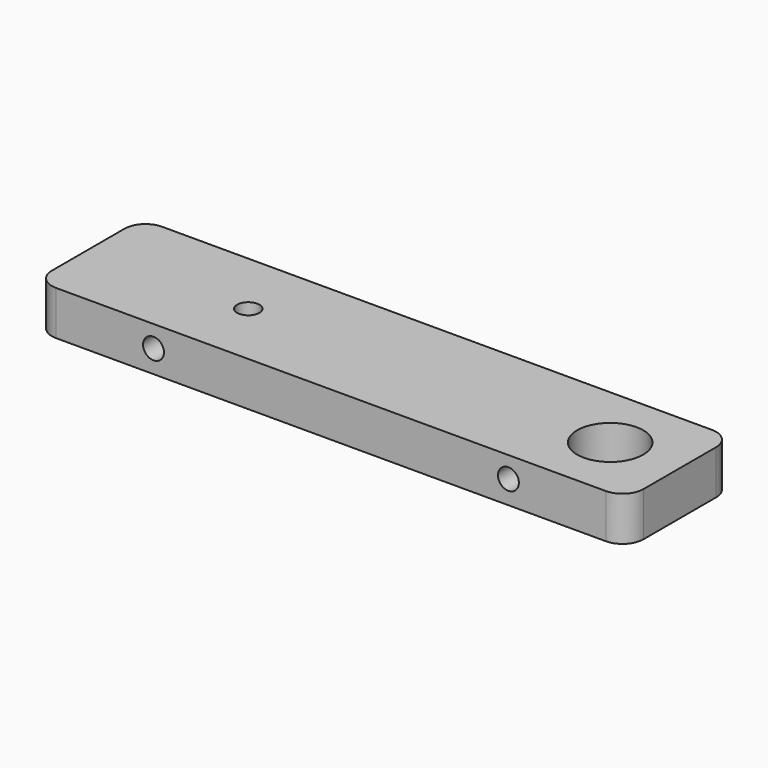
from build123d import *

# Parameters (mm, degrees)
F0_W     = 85
F0_H     = 19.05
F0_R     = 1.6
F0_R_2   = 4.75
F1_DEPTH = 6.35
F2_R     = 1.5
F3_DEPTH = 5
F4_R     = 3


with BuildPart() as f1:
    # F0 (on Top) → F1 (new body)
    with BuildSketch(Plane.XY):
        Rectangle(F0_W, F0_H)
        with Locations((-19.5, 0)):
            Circle(F0_R, mode=Mode.SUBTRACT)
        with Locations((32.5, 0)):
            Circle(F0_R_2, mode=Mode.SUBTRACT)
    extrude(amount=F1_DEPTH)

    # F2 (on face) → F3 (cut)
    with BuildSketch(Plane.XZ.offset(9.525)):
        with Locations((-25.5, 3.243347)):
            Circle(F2_R)
        with Locations((25.5, 3.320043)):
            Circle(F2_R)
    extrude(amount=-F3_DEPTH, mode=Mode.SUBTRACT)

    # F4
    f4_edges = [f1.edges().sort_by_distance(p)[0] for p in [
        (-42.5, 9.525, 3.175),
        (-42.5, -9.525, 3.175),
        (42.5, 9.525, 3.175),
        (42.5, -9.525, 3.175),
    ]]
    fillet(f4_edges, radius=F4_R)


solid = f1.part
